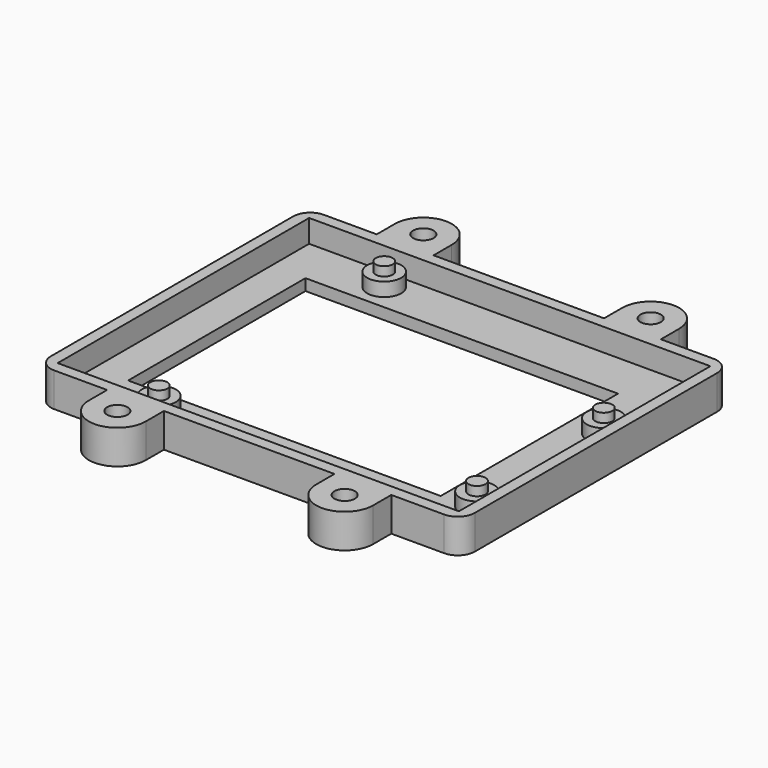
from build123d import *

# Parameters (mm, degrees)
SKETCH_R        = 1.8
PAD_DEPTH       = 6
SKETCH001_W     = 70.6
SKETCH001_H     = 55.3
POCKET_DEPTH    = 4
SKETCH002_R     = 3
PAD001_DEPTH    = 2.4
SKETCH003_R     = 1.5
PAD002_DEPTH    = 1.6
POCKET001_DEPTH = 3
POCKET002_DEPTH = 3
SKETCH006_W     = 55
SKETCH006_H     = 39
POCKET003_DEPTH = 5


with BuildPart() as part:
    # Sketch → Pad (new body)
    with BuildSketch(Plane.XY):
        with BuildLine():
            ThreePointArc((-3, 0), (-2.12132, -2.12132), (0, -3))
            Line((0, -3), (9.3, -3))
            Line((9.3, -3), (9.3, -7))
            ThreePointArc((9.3, -7), (14.3, -12), (19.3, -7))
            Line((19.3, -7), (19.3, -3))
            Line((19.3, -3), (49.3, -3))
            Line((49.3, -3), (49.3, -7))
            ThreePointArc((49.3, -7), (54.3, -12), (59.3, -7))
            Line((59.3, -7), (59.3, -3))
            Line((59.3, -3), (68.6, -3))
            ThreePointArc((68.6, -3), (70.72132, -2.12132), (71.6, 0))
            Line((71.6, 0), (71.6, 53.3))
            ThreePointArc((71.6, 53.3), (70.72132, 55.42132), (68.6, 56.3))
            Line((59.3, 56.3), (68.6, 56.3))
            Line((59.3, 60.3), (59.3, 56.3))
            ThreePointArc((59.3, 60.3), (54.3, 65.3), (49.3, 60.3))
            Line((49.3, 56.3), (49.3, 60.3))
            Line((19.3, 56.3), (49.3, 56.3))
            Line((19.3, 60.3), (19.3, 56.3))
            ThreePointArc((19.3, 60.3), (14.3, 65.3), (9.3, 60.3))
            Line((9.3, 56.3), (9.3, 60.3))
            Line((0, 56.3), (9.3, 56.3))
            ThreePointArc((0, 56.3), (-2.12132, 55.42132), (-3, 53.3))
            Line((-3, 53.3), (-3, 0))
        make_face()
        with Locations((14.3, -7)):
            Circle(SKETCH_R, mode=Mode.SUBTRACT)
        with Locations((54.3, -7)):
            Circle(SKETCH_R, mode=Mode.SUBTRACT)
        with Locations((54.3, 60.3)):
            Circle(SKETCH_R, mode=Mode.SUBTRACT)
        with Locations((14.3, 60.3)):
            Circle(SKETCH_R, mode=Mode.SUBTRACT)
    extrude(amount=PAD_DEPTH)

    # Sketch001 → Pocket (cut)
    with BuildSketch(Plane.XY.offset(6)):
        with Locations((34.3, 26.65)):
            Rectangle(SKETCH001_W, SKETCH001_H)
    extrude(amount=-POCKET_DEPTH, mode=Mode.SUBTRACT)

    # Sketch002 → Pad001 (new body)
    with BuildSketch(Plane.XY.offset(2)):
        with Locations((15.1, 50.7)):
            Circle(SKETCH002_R)
        with Locations((14, 2.5)):
            Circle(SKETCH002_R)
        with Locations((65.9, 35.5)):
            Circle(SKETCH002_R)
        with Locations((65.9, 7.6)):
            Circle(SKETCH002_R)
    extrude(amount=PAD001_DEPTH)

    # Sketch003 → Pad002 (new body)
    with BuildSketch(Plane.XY.offset(4.4)):
        with Locations((15.1, 50.7)):
            Circle(SKETCH003_R)
        with Locations((14, 2.5)):
            Circle(SKETCH003_R)
        with Locations((65.9, 35.5)):
            Circle(SKETCH003_R)
        with Locations((65.9, 7.6)):
            Circle(SKETCH003_R)
    extrude(amount=PAD002_DEPTH)

    # Sketch004 → Pocket001 (cut)
    with BuildSketch(Plane(origin=(0, 0, 0), x_dir=(1, 0, 0), z_dir=(0, 0, -1))):
        Polygon((11.35, 5.296817), (11.35, 8.703183), (14.3, 10.406367), (17.25, 8.703183), (17.25, 5.296817), (14.3, 3.593633), align=None)
        Polygon((51.35, 5.296817), (51.35, 8.703183), (54.3, 10.406367), (57.25, 8.703183), (57.25, 5.296817), (54.3, 3.593633), align=None)
    extrude(amount=-POCKET001_DEPTH, mode=Mode.SUBTRACT)

    # Sketch005 → Pocket002 (cut)
    with BuildSketch(Plane(origin=(0, 0, 0), x_dir=(1, 0, 0), z_dir=(0, 0, -1))):
        Polygon((11.35, -62.003183), (11.35, -58.596817), (14.3, -56.893633), (17.25, -58.596817), (17.25, -62.003183), (14.3, -63.706367), align=None)
        Polygon((51.35, -62.003183), (51.35, -58.596817), (54.3, -56.893633), (57.25, -58.596817), (57.25, -62.003183), (54.3, -63.706367), align=None)
    extrude(amount=-POCKET002_DEPTH, mode=Mode.SUBTRACT)

    # Sketch006 → Pocket003 (cut)
    with BuildSketch(Plane.XY.offset(2)):
        with Locations((32.5, 26.5)):
            Rectangle(SKETCH006_W, SKETCH006_H)
    extrude(amount=-POCKET003_DEPTH, mode=Mode.SUBTRACT)


solid = part.part
